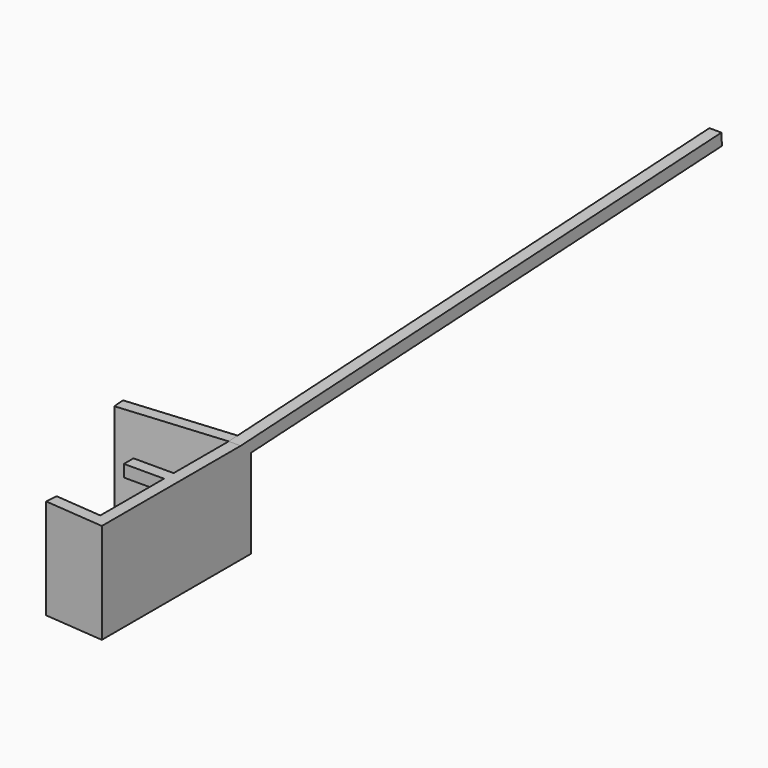
from build123d import *

# Parameters (mm, degrees)
F1_DEPTH = 25
F3_START = 22
F2_W     = 10
F2_H     = 3
F3_DEPTH = 3
F5_DEPTH = 3


with BuildPart() as f1:
    # F0 (on Top) → F1 (new body)
    with BuildSketch(Plane.XY):
        Polygon((-14.9429204714, 1.3073361412), (0, 0), (0, 46.5478510064), (-29.8858409428, 43.933178724), (-29.6243737145, 40.9445946297), (-3, 43.2739255032), (-3, 3.2739255032), (-14.6814532431, 4.2959202355), align=None)
    extrude(amount=F1_DEPTH)

    # F2 (on Top) → F3 (join)
    with BuildSketch(Plane.XY.offset(F3_START)):
        with Locations((-8, 24.6239255032)):
            Rectangle(F2_W, F2_H)
    extrude(amount=F3_DEPTH)

    # F4 (on Right) → F5 (join)
    with BuildSketch(Plane.YZ):
        Polygon((193.0683557164, 32.8503934364), (43.2739255032, 25), (43.4309333719, 22.0041113957), (193.2253635851, 29.8545048322), align=None)
    extrude(amount=-F5_DEPTH)


solid = f1.part
